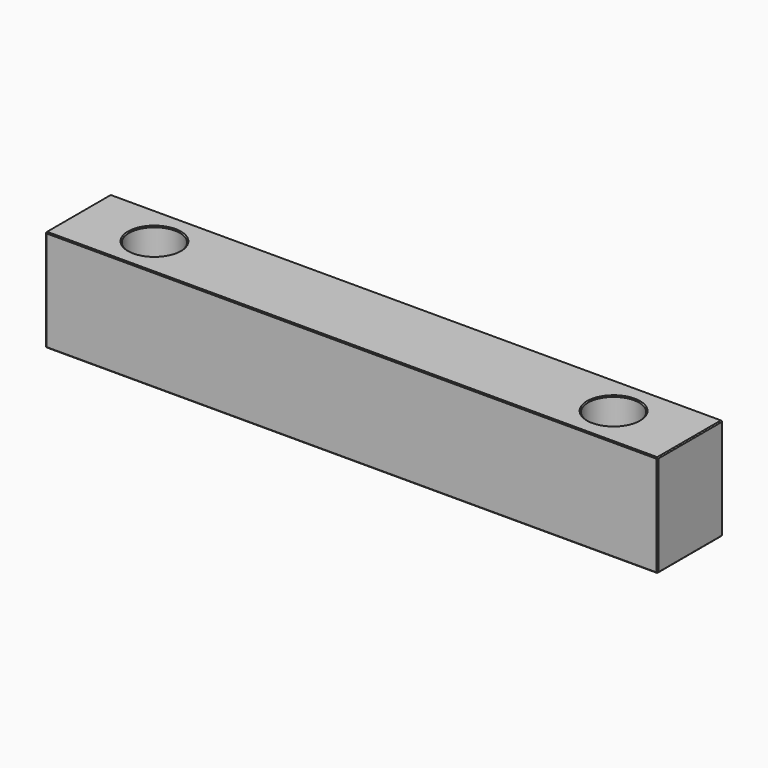
from build123d import *

# Parameters (mm, degrees)
F0_W     = 120
F0_H     = 16
F1_DEPTH = 20
F3_D     = 10
F4_SIZE  = 0.2


with BuildPart() as f1:
    # F0 (on Top) → F1 (new body)
    with BuildSketch(Plane.XY):
        Rectangle(F0_W, F0_H)
    extrude(amount=-F1_DEPTH)

    # F3 (through all)
    with Locations(Plane.XY):
        with Locations((-45, 0), (45, 0)):
            Hole(F3_D / 2)

    # F4
    f4_edges = [f1.edges().sort_by_distance(p)[0] for p in [
        (0, 8, 0),
        (60, 0, 0),
        (-60, 0, 0),
        (0, -8, 0),
        (-50, 0, 0),
        (40, 0, 0),
        (-60, 8, -10),
        (-60, -8, -10),
        (-60, 0, -20),
        (0, 8, -20),
        (60, 0, -20),
        (0, -8, -20),
        (-50, 0, -20),
        (40, 0, -20),
        (60, 8, -10),
        (60, -8, -10),
    ]]
    chamfer(f4_edges, length=F4_SIZE)


solid = f1.part
